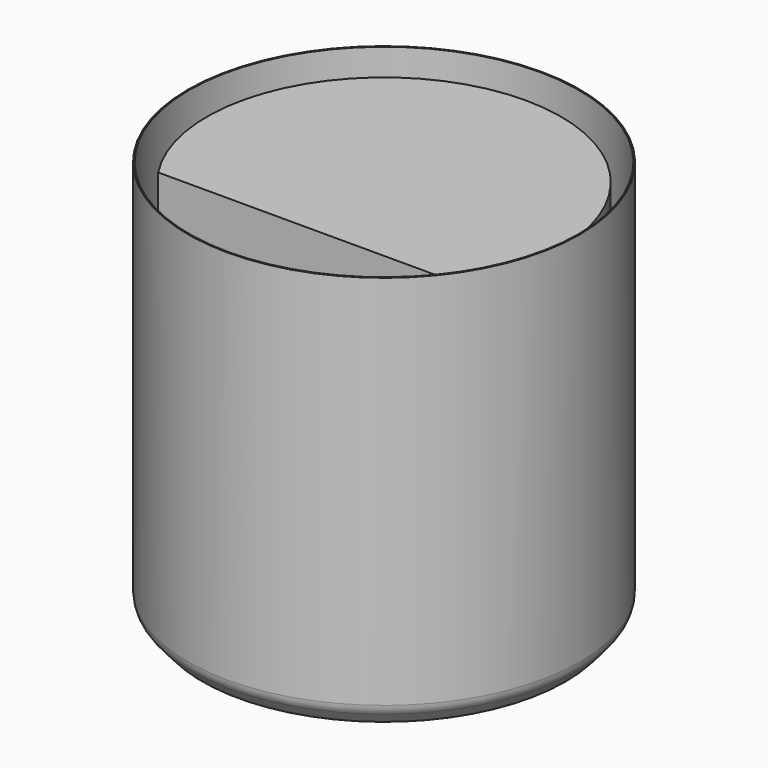
from build123d import *

# Parameters (mm, degrees)
F1_DEPTH = 266.7


with BuildPart() as f1:
    # F0 (on Top) → F1 (new body)
    with BuildSketch(Plane.XY):
        with BuildLine():
            ThreePointArc((106.065911, -69.85), (0, 127), (-106.065911, -69.85))
            Line((-106.065911, -69.85), (106.065911, -69.85))
        make_face()
    extrude(amount=F1_DEPTH)


with BuildPart() as f3:
    # F2 (on Front) → F3 (revolve)
    with BuildSketch(Plane.XZ):
        with BuildLine():
            Line((0, -0.873125), (0, 0))
            Line((0, 0), (-130.175, 0))
            ThreePointArc((-130.175, 0), (-136.910192, 2.789808), (-139.7, 9.525))
            Line((-139.7, 9.525), (-139.7, 279.4))
            Line((-139.7, 279.4), (-140.573125, 279.4))
            Line((-140.573125, 279.4), (-140.573125, 9.525))
            ThreePointArc((-140.573125, 9.525), (-139.917185, 5.89033), (-138.032124, 2.714228))
            ThreePointArc((-138.032124, 2.714228), (-134.493666, 0.066135), (-130.175, -0.873125))
            Line((-130.175, -0.873125), (0, -0.873125))
        make_face()
        with BuildLine():
            Line((0, -6.35), (0, -0.873125))
            Line((0, -0.873125), (-130.175, -0.873125))
            ThreePointArc((-130.175, -0.873125), (-134.493666, 0.066135), (-138.032124, 2.714228))
            Line((-138.032124, 2.714228), (-130.175, -6.35))
            Line((-130.175, -6.35), (0, -6.35))
        make_face()
    revolve(axis=Axis((0, 0, -3.175), (0, 0, -1)))


solid = Compound([f1.part, f3.part])
